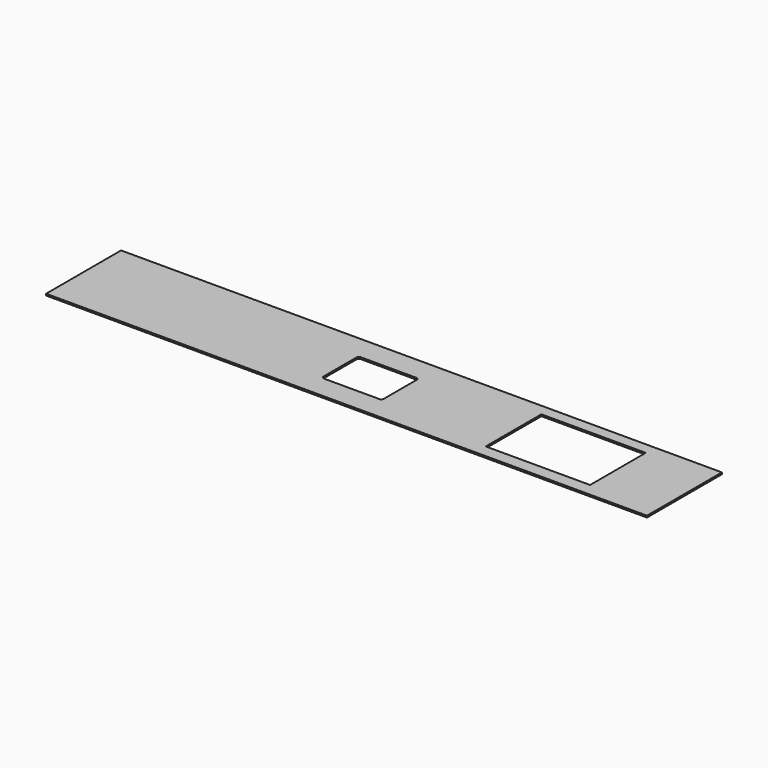
from build123d import *

# Parameters (mm, degrees)
F0_W     = 4232
F0_H     = 660
F1_DEPTH = 12
F3_DEPTH = 30


with BuildPart() as f1:
    # F0 (on Top) → F1 (new body)
    with BuildSketch(Plane.XY):
        Rectangle(F0_W, F0_H)
    extrude(amount=F1_DEPTH)

    # F2 (on face) → F3 (cut)
    with BuildSketch(Plane.XY.offset(12)):
        with BuildLine():
            Line((98.5, 160), (-290.5, 160))
            ThreePointArc((-290.5, 160), (-303.227922, 154.727922), (-308.5, 142))
            Line((-308.5, 142), (-308.5, -147))
            ThreePointArc((-308.5, -147), (-303.227922, -159.727922), (-290.5, -165))
            Line((-290.5, -165), (98.5, -165))
            ThreePointArc((98.5, -165), (111.227922, -159.727922), (116.5, -147))
            Line((116.5, -147), (116.5, 142))
            ThreePointArc((116.5, 142), (111.227922, 154.727922), (98.5, 160))
        make_face()
        with BuildLine():
            Line((1638.5, 250), (913.5, 250))
            ThreePointArc((913.5, 250), (909.964466, 248.535534), (908.5, 245))
            Line((908.5, 245), (908.5, -235))
            ThreePointArc((908.5, -235), (909.964466, -238.535534), (913.5, -240))
            Line((913.5, -240), (1638.5, -240))
            ThreePointArc((1638.5, -240), (1642.035534, -238.535534), (1643.5, -235))
            Line((1643.5, -235), (1643.5, 245))
            ThreePointArc((1643.5, 245), (1642.035534, 248.535534), (1638.5, 250))
        make_face()
    extrude(amount=-F3_DEPTH, mode=Mode.SUBTRACT)


solid = f1.part
